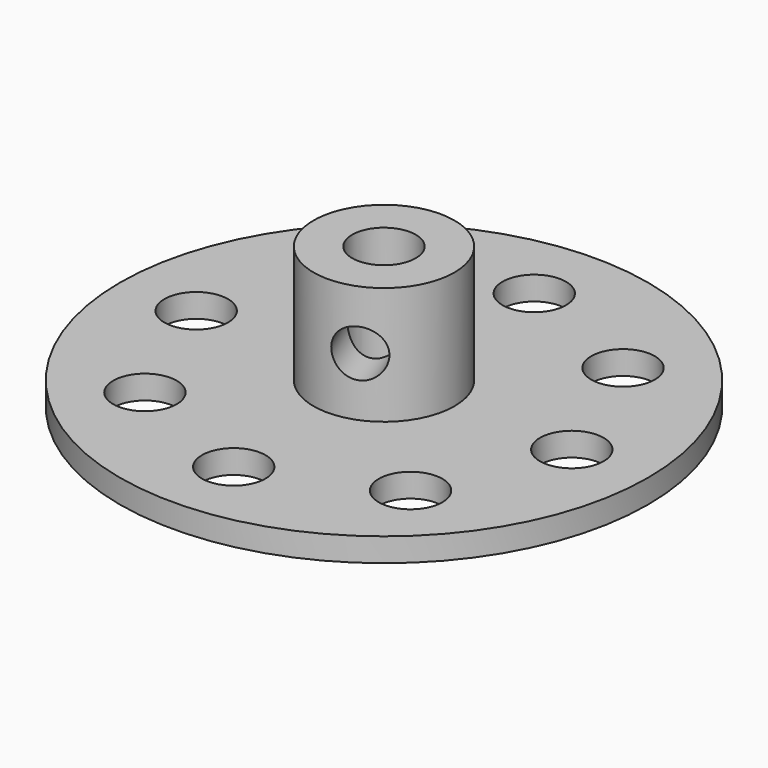
from build123d import *

# Parameters (mm, degrees)
SKETCH_R             = 17.86
PAD_DEPTH            = 1.6
SKETCH001_R          = 4.765
PAD001_DEPTH         = 7.96
SKETCH002_R          = 2.15
POCKET_DEPTH         = 9.561
SKETCH003_R          = 1.6
POCKET001_DEPTH      = 5
POCKET001_DEPTH_BACK = -5
SKETCH004_R          = 2.15
POCKET002_DEPTH      = 112.385713
POLARPATTERN_COUNT   = 8


with BuildPart() as part:
    # Sketch → Pad (new body)
    with BuildSketch(Plane.XY):
        Circle(SKETCH_R)
    extrude(amount=PAD_DEPTH)

    # Sketch001 (on Face3 of Pad) → Pad001 (join)
    with BuildSketch(Plane.XY.offset(1.6)):
        Circle(SKETCH001_R)
    extrude(amount=PAD001_DEPTH)

    # Sketch002 (on Face5 of Pad001) → Pocket (cut, through all)
    with BuildSketch(Plane.XY.offset(9.56)):
        Circle(SKETCH002_R)
    extrude(amount=-POCKET_DEPTH, mode=Mode.SUBTRACT)

    # Sketch003 (on DatumPlane) → Pocket001 (cut, two sides)
    with BuildSketch(Plane(origin=(0, 0, 0), x_dir=(0.92388, 0.382683, 0), z_dir=(0.382683, -0.92388, 0))) as pocket001_sk:
        with Locations((0, 5.57)):
            Circle(SKETCH003_R)
    extrude(amount=-POCKET001_DEPTH, mode=Mode.SUBTRACT)
    extrude(pocket001_sk.sketch, amount=-POCKET001_DEPTH_BACK, mode=Mode.SUBTRACT)

    # Sketch004 → Pocket002 (cut, through all)
    with BuildSketch(Plane.XY):
        with Locations((0, 12.7)):
            Circle(SKETCH004_R)
    pocket002 = extrude(amount=POCKET002_DEPTH, mode=Mode.SUBTRACT)

    # PolarPattern: Pocket002 ×8 about axis
    polarpattern_axis = Axis((0, 0, 0), (0, 0, 1))
    for i in range(1, POLARPATTERN_COUNT):
        add(pocket002.rotate(polarpattern_axis, i * 360 / POLARPATTERN_COUNT), mode=Mode.SUBTRACT)


solid = part.part
